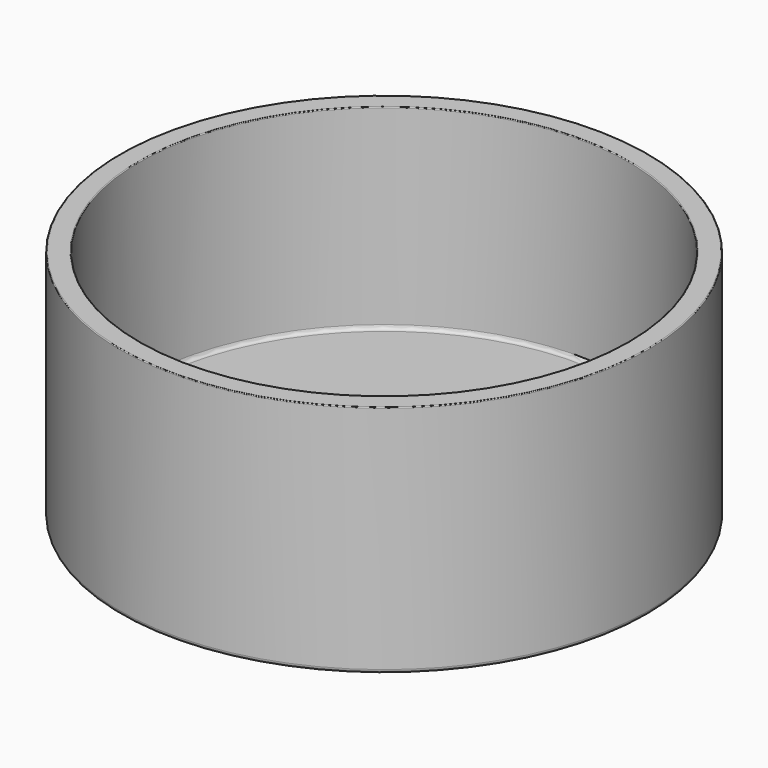
from build123d import *

# Parameters (mm, degrees)
F0_R     = 79.375
F1_DEPTH = 12.7
F0_R_2   = 85.725
F2_DEPTH = 76.2
F3_R     = 1.27
F4_R     = 0.254


with BuildPart() as f1:
    # F0 (on Top) → F1 (new body)
    with BuildSketch(Plane.XY):
        Circle(F0_R)
    extrude(amount=F1_DEPTH)

    # F0 (on Top) → F2 (join)
    with BuildSketch(Plane.XY):
        Circle(F0_R_2)
        Circle(F0_R, mode=Mode.SUBTRACT)
    extrude(amount=F2_DEPTH)

    # F3
    f3_edges = [f1.edges().sort_by_distance(p)[0] for p in [
        (-85.725, 0, 0),
        (-79.375, 0, 12.7),
    ]]
    fillet(f3_edges, radius=F3_R)

    # F4
    f4_edges = [f1.edges().sort_by_distance(p)[0] for p in [
        (-79.375, 0, 76.2),
        (-85.725, 0, 76.2),
    ]]
    fillet(f4_edges, radius=F4_R)


solid = f1.part
